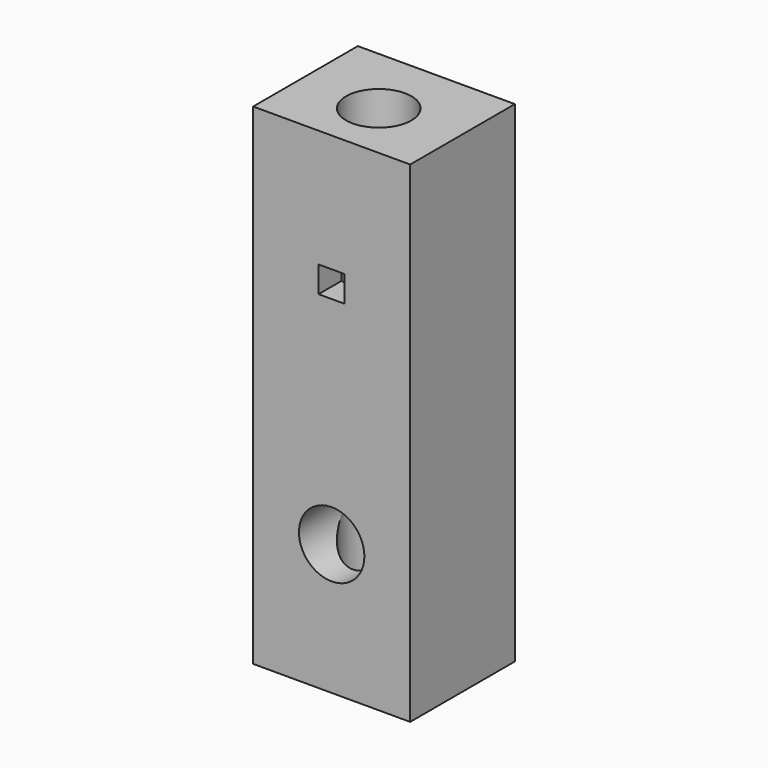
from build123d import *

# Parameters (mm, degrees)
F0_W     = 30.48
F0_H     = 95.25
F0_R     = 6.35
F0_W_2   = 5.08
F0_H_2   = 5.08
F1_DEPTH = 25.4
F2_R     = 6.35
F3_DEPTH = 95.251


with BuildPart() as f1:
    # F0 (on Front) → F1 (new body)
    with BuildSketch(Plane.XZ):
        with Locations((-275.705503, 4.959305)):
            Rectangle(F0_W, F0_H)
        with Locations((-275.705503, -17.265695)):
            Circle(F0_R, mode=Mode.SUBTRACT)
        with Locations((-275.705503, 27.184305)):
            Rectangle(F0_W_2, F0_H_2, mode=Mode.SUBTRACT)
    extrude(amount=F1_DEPTH)

    # F2 (on face) → F3 (cut, through all)
    with BuildSketch(Plane(origin=(0, 0, -42.665695), x_dir=(1, 0, 0), z_dir=(0, 0, -1))):
        with Locations((-275.705503, 13.97)):
            Circle(F2_R)
    extrude(amount=-F3_DEPTH, mode=Mode.SUBTRACT)


solid = f1.part
